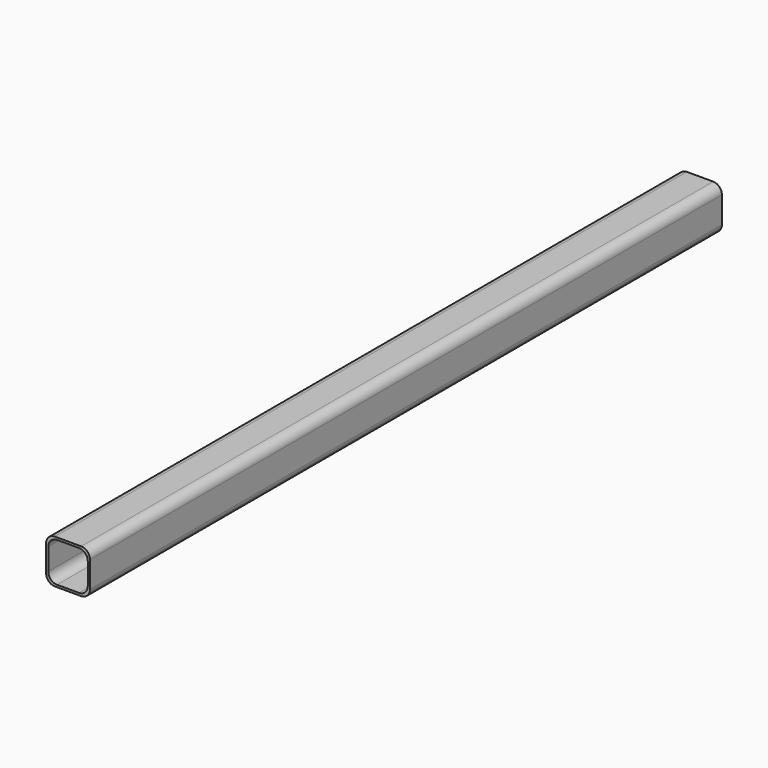
from build123d import *

# Parameters (mm, degrees)
F0_W     = 25.4
F0_H     = 25.4
F0_W_2   = 22.86
F0_H_2   = 22.86
F1_DEPTH = 228.6
F2_R     = 5.08


with BuildPart() as f1:
    # F0 (on Front) → F1 (new body, symmetric)
    with BuildSketch(Plane.XZ):
        Rectangle(F0_W, F0_H)
        Rectangle(F0_W_2, F0_H_2, mode=Mode.SUBTRACT)
    extrude(amount=F1_DEPTH, both=True)

    # F2
    f2_edges = [f1.edges().sort_by_distance(p)[0] for p in [
        (-11.43, 0, 11.43),
        (11.43, 0, 11.43),
        (-11.43, 0, -11.43),
        (11.43, 0, -11.43),
        (-12.7, 0, 12.7),
        (12.7, 0, 12.7),
        (-12.7, 0, -12.7),
        (12.7, 0, -12.7),
    ]]
    fillet(f2_edges, radius=F2_R)


solid = f1.part
